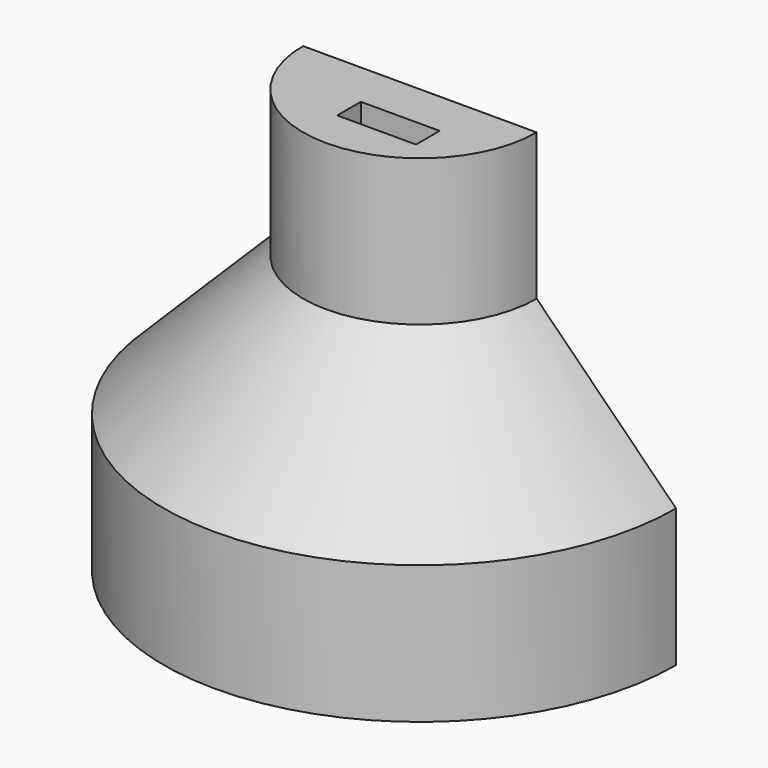
from build123d import *

# Parameters (mm, degrees)
F1_ANGLE = 180
F2_W     = 20.32
F2_H     = 7.62
F3_DEPTH = 109.221


with BuildPart() as f1:
    # F0 (on Front) → F1 (revolve)
    with BuildSketch(Plane.XZ):
        Polygon((0, 57.584474), (-30.118976, 57.584474), (-30.118976, 19.845498), (-66.04, -16.075526), (-66.04, -51.635526), (0, -51.635526), align=None)
    revolve(axis=Axis((0, 0, 2.974474), (0, 0, 1)), revolution_arc=F1_ANGLE)

    # F2 (on face) → F3 (cut, through all)
    with BuildSketch(Plane.XY.offset(57.584474)):
        with Locations((4.286386, -15.498887)):
            Rectangle(F2_W, F2_H)
    extrude(amount=-F3_DEPTH, mode=Mode.SUBTRACT)


solid = f1.part
